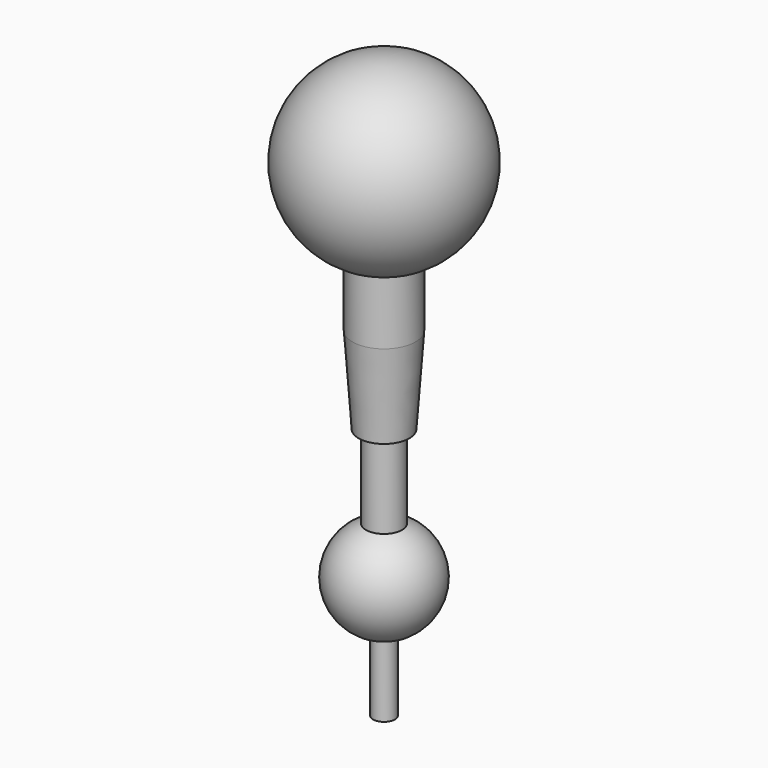
from build123d import *


with BuildPart() as f1:
    # F0 (on Right) → F1 (revolve)
    with BuildSketch(Plane.YZ):
        with BuildLine():
            ThreePointArc((4.8989794856, 46), (12.2474487139, 60), (0, 70))
            Line((0, 70), (0, 46))
            Line((0, 46), (4.35, 46))
            Line((4.35, 46), (4.8989794856, 46))
        make_face()
        with BuildLine():
            ThreePointArc((4.35, 45.7813183335), (2.2098053273, 45.1968800536), (0, 45))
            Line((0, 45), (0, 25))
            Line((0, 25), (2.5, 25))
            Line((2.5, 25), (3.5, 25))
            Line((3.5, 25), (4.35, 37))
            Line((4.35, 37), (4.35, 45.7813183335))
        make_face()
        with BuildLine():
            Line((2.5, 25), (0, 25))
            Line((0, 25), (0, 14))
            ThreePointArc((0, 14), (1.2711335675, 13.8836196477), (2.5, 13.5383484153))
            Line((2.5, 13.5383484153), (2.5, 25))
        make_face()
        with BuildLine():
            Line((2.5, 13.5383484153), (0, 13.5383484153))
            Line((0, 13.5383484153), (0, 0.1626028344))
            Line((0, 0.1626028344), (1.5, 0.1626028344))
            ThreePointArc((1.5, 0.1626028344), (6.9805187817, 6.4781211455), (2.5, 13.5383484153))
        make_face()
        with BuildLine():
            ThreePointArc((2.5, 13.5383484153), (1.2711335675, 13.8836196477), (0, 14))
            Line((0, 14), (0, 13.5383484153))
            Line((0, 13.5383484153), (2.5, 13.5383484153))
        make_face()
        with BuildLine():
            Line((4.35, 46), (0, 46))
            Line((0, 46), (0, 45))
            ThreePointArc((0, 45), (2.2098053273, 45.1968800536), (4.35, 45.7813183335))
            Line((4.35, 45.7813183335), (4.35, 46))
        make_face()
        with BuildLine():
            Line((1.5, -9.8373971656), (1.5, 0.1626028344))
            ThreePointArc((1.5, 0.1626028344), (0.7543937436, 0.0407694334), (0, 0))
            Line((0, 0), (0, -9.8373971656))
            Line((0, -9.8373971656), (1.5, -9.8373971656))
        make_face()
        with BuildLine():
            Line((1.5, 0.1626028344), (0, 0.1626028344))
            Line((0, 0.1626028344), (0, 0))
            ThreePointArc((0, 0), (0.7543937436, 0.0407694334), (1.5, 0.1626028344))
        make_face()
    revolve(axis=Axis((0, 0, 35), (0, 0, -1)))


solid = f1.part
